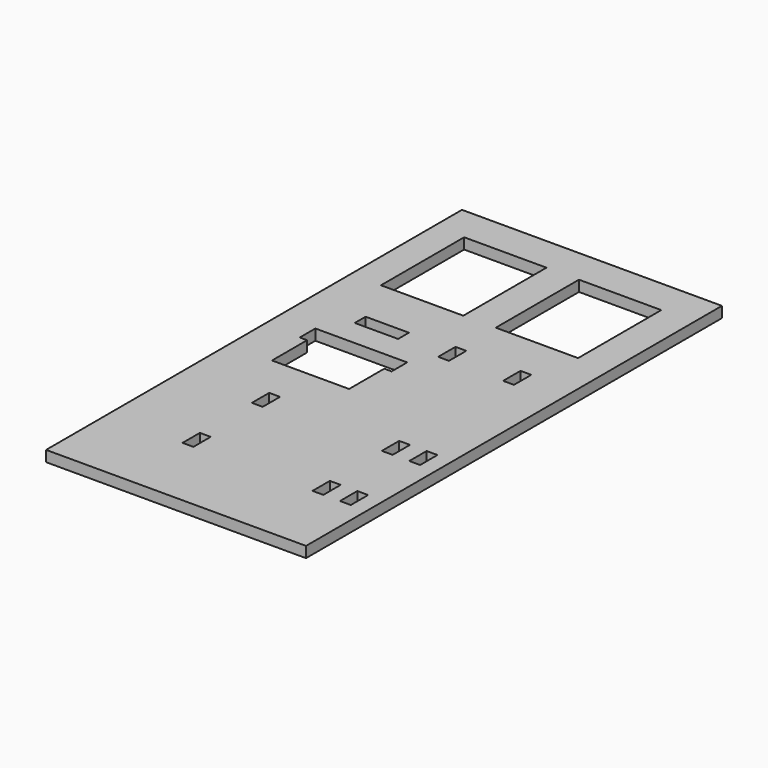
from build123d import *

# Parameters (mm, degrees)
F0_W     = 152.4
F0_H     = 304.8
F1_DEPTH = 6.35
F2_W     = 6.35
F2_H     = 12.7
F2_W_2   = 48.26
F2_H_2   = 60.96
F2_W_3   = 25.4
F2_H_3   = 7.9375
F3_DEPTH = 6.351
F4_W     = 6.35
F4_H     = 12.7
F5_DEPTH = 25.4


with BuildPart() as f1:
    # F0 (on Top) → F1 (new body)
    with BuildSketch(Plane.XY):
        with Locations((76.2, 152.4)):
            Rectangle(F0_W, F0_H)
    extrude(amount=F1_DEPTH)

    # F2 (on face) → F3 (cut, through all)
    with BuildSketch(Plane.XY.offset(6.35)):
        with Locations((123.825, 50.8)):
            Rectangle(F2_W, F2_H)
        with Locations((47.625, 50.8)):
            Rectangle(F2_W, F2_H)
        with Locations((123.825, 101.6)):
            Rectangle(F2_W, F2_H)
        with Locations((47.625, 101.6)):
            Rectangle(F2_W, F2_H)
        with Locations((123.825, 190.5)):
            Rectangle(F2_W, F2_H)
        with Locations((85.725, 190.5)):
            Rectangle(F2_W, F2_H)
        with Locations((109.22, 253.6825)):
            Rectangle(F2_W_2, F2_H_2)
        with Locations((44.45, 190.50635)):
            Rectangle(F2_W_3, F2_H_3)
        Polygon((25.4, 159.5628), (25.4, 133.8072), (70.612, 133.8072), (70.612, 159.5628), (74.93, 159.5628), (74.93, 170.9928), (21.082, 170.9928), (21.082, 159.5628), align=None)
        with Locations((41.91, 253.6825)):
            Rectangle(F2_W_2, F2_H_2)
    extrude(amount=-F3_DEPTH, mode=Mode.SUBTRACT)

    # F4 (on face) → F5 (cut)
    with BuildSketch(Plane.XY.offset(6.35)):
        with Locations((139.920227, 50.8)):
            Rectangle(F4_W, F4_H)
        with Locations((139.920227, 101.6)):
            Rectangle(F4_W, F4_H)
    extrude(amount=-F5_DEPTH, mode=Mode.SUBTRACT)


solid = f1.part
